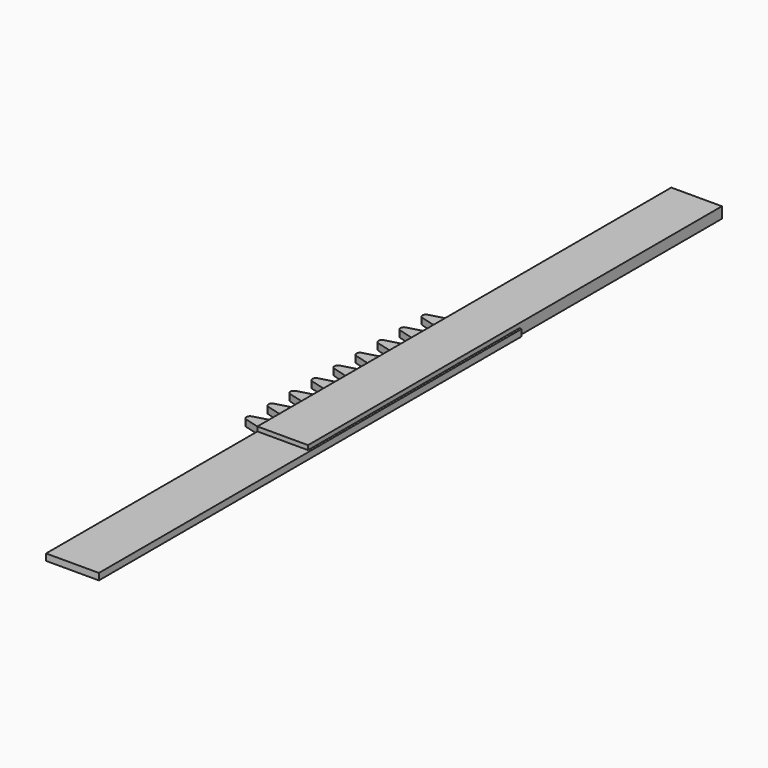
from build123d import *

# Parameters (mm, degrees)
F1_DEPTH = 0.3
F2_W     = 2.3
F2_H     = 23.5
F3_DEPTH = 0.5
F4_SCALE = 3


with BuildPart() as f1:
    # F0 (on Top) → F1 (new body)
    with BuildSketch(Plane.XY):
        with BuildLine():
            Line((0, 10), (0, 11.25))
            ThreePointArc((0, 11.25), (-0.0614693449, 11.0680573536), (-0.2206875105, 10.9606740091))
            Line((-0.2206875105, 10.9606740091), (-0.8822999944, 10.7793071951))
            ThreePointArc((-0.8822999944, 10.7793071951), (-1, 10.625), (-0.8822999944, 10.4706928049))
            Line((-0.8822999944, 10.4706928049), (-0.2206875105, 10.2893259909))
            ThreePointArc((-0.2206875105, 10.2893259909), (-0.0614693449, 10.1819426464), (0, 10))
        make_face()
        with BuildLine():
            Line((0, 8.75), (0, 10))
            ThreePointArc((0, 10), (-0.0614693449, 9.8180573536), (-0.2206875105, 9.7106740091))
            Line((-0.2206875105, 9.7106740091), (-0.8822999944, 9.5293071951))
            ThreePointArc((-0.8822999944, 9.5293071951), (-1, 9.375), (-0.8822999944, 9.2206928049))
            Line((-0.8822999944, 9.2206928049), (-0.2206875105, 9.0393259909))
            ThreePointArc((-0.2206875105, 9.0393259909), (-0.0614693449, 8.9319426464), (0, 8.75))
        make_face()
        with BuildLine():
            Line((0, 7.5), (0, 8.75))
            ThreePointArc((0, 8.75), (-0.0614693449, 8.5680573536), (-0.2206875105, 8.4606740091))
            Line((-0.2206875105, 8.4606740091), (-0.8822999944, 8.2793071951))
            ThreePointArc((-0.8822999944, 8.2793071951), (-1, 8.125), (-0.8822999944, 7.9706928049))
            Line((-0.8822999944, 7.9706928049), (-0.2206875105, 7.7893259909))
            ThreePointArc((-0.2206875105, 7.7893259909), (-0.0614693449, 7.6819426464), (0, 7.5))
        make_face()
        with BuildLine():
            Line((0, 6.25), (0, 7.5))
            ThreePointArc((0, 7.5), (-0.0614693449, 7.3180573536), (-0.2206875105, 7.2106740091))
            Line((-0.2206875105, 7.2106740091), (-0.8822999944, 7.0293071951))
            ThreePointArc((-0.8822999944, 7.0293071951), (-1, 6.875), (-0.8822999944, 6.7206928049))
            Line((-0.8822999944, 6.7206928049), (-0.2206875105, 6.5393259909))
            ThreePointArc((-0.2206875105, 6.5393259909), (-0.0614693449, 6.4319426464), (0, 6.25))
        make_face()
        with BuildLine():
            Line((0, 5), (0, 6.25))
            ThreePointArc((0, 6.25), (-0.0614693449, 6.0680573536), (-0.2206875105, 5.9606740091))
            Line((-0.2206875105, 5.9606740091), (-0.8822999944, 5.7793071951))
            ThreePointArc((-0.8822999944, 5.7793071951), (-1, 5.625), (-0.8822999944, 5.4706928049))
            Line((-0.8822999944, 5.4706928049), (-0.2206875105, 5.2893259909))
            ThreePointArc((-0.2206875105, 5.2893259909), (-0.0614693449, 5.1819426464), (0, 5))
        make_face()
        with BuildLine():
            Line((0, 3.75), (0, 5))
            ThreePointArc((0, 5), (-0.0614693449, 4.8180573536), (-0.2206875105, 4.7106740091))
            Line((-0.2206875105, 4.7106740091), (-0.8822999944, 4.5293071951))
            ThreePointArc((-0.8822999944, 4.5293071951), (-1, 4.375), (-0.8822999944, 4.2206928049))
            Line((-0.8822999944, 4.2206928049), (-0.2206875105, 4.0393259909))
            ThreePointArc((-0.2206875105, 4.0393259909), (-0.0614693449, 3.9319426464), (0, 3.75))
        make_face()
        with BuildLine():
            ThreePointArc((-0.2206875105, 2.7893259909), (-0.0614693449, 2.6819426464), (0, 2.5))
            Line((0, 2.5), (0, 3.75))
            ThreePointArc((0, 3.75), (-0.0614693449, 3.5680573536), (-0.2206875105, 3.4606740091))
            Line((-0.2206875105, 3.4606740091), (-0.8822999944, 3.2793071951))
            ThreePointArc((-0.8822999944, 3.2793071951), (-1, 3.125), (-0.8822999944, 2.9706928049))
            Line((-0.8822999944, 2.9706928049), (-0.2206875105, 2.7893259909))
        make_face()
        with BuildLine():
            ThreePointArc((-0.2206875105, 1.5393259909), (-0.0614693449, 1.4319426464), (0, 1.25))
            Line((0, 1.25), (0, 2.5))
            ThreePointArc((0, 2.5), (-0.0614693449, 2.3180573536), (-0.2206875105, 2.2106740091))
            Line((-0.2206875105, 2.2106740091), (-0.8822999944, 2.0293071951))
            ThreePointArc((-0.8822999944, 2.0293071951), (-1, 1.875), (-0.8822999944, 1.7206928049))
            Line((-0.8822999944, 1.7206928049), (-0.2206875105, 1.5393259909))
        make_face()
        with BuildLine():
            ThreePointArc((-0.2206875105, 0.2893259909), (-0.0614693449, 0.1819426464), (0, 0))
            Line((0, 0), (0, 1.25))
            ThreePointArc((0, 1.25), (-0.0614693449, 1.0680573536), (-0.2206875105, 0.9606740091))
            Line((-0.2206875105, 0.9606740091), (-0.8822999944, 0.7793071951))
            ThreePointArc((-0.8822999944, 0.7793071951), (-1, 0.625), (-0.8822999944, 0.4706928049))
            Line((-0.8822999944, 0.4706928049), (-0.2206875105, 0.2893259909))
        make_face()
        Polygon((2.4, 12), (0, 12), (0, 11.25), (0, 10), (0, 8.75), (0, 7.5), (0, 6.25), (0, 5), (0, 3.75), (0, 2.5), (0, 1.25), (0, 0), (0, -12), (2.4, -12), align=None)
    extrude(amount=F1_DEPTH)


with BuildPart() as f3:
    # F2 (on Top) → F3 (new body)
    with BuildSketch(Plane.XY):
        with Locations((1.15, 11.75)):
            Rectangle(F2_W, F2_H)
    extrude(amount=F3_DEPTH)


with BuildPart() as f3_1:
    # F4: moved
    add(f3.part.scale(F4_SCALE))


with BuildPart() as f1_1:
    # F4: moved
    add(f1.part.scale(F4_SCALE))


solid = Compound([f3_1.part, f1_1.part])
